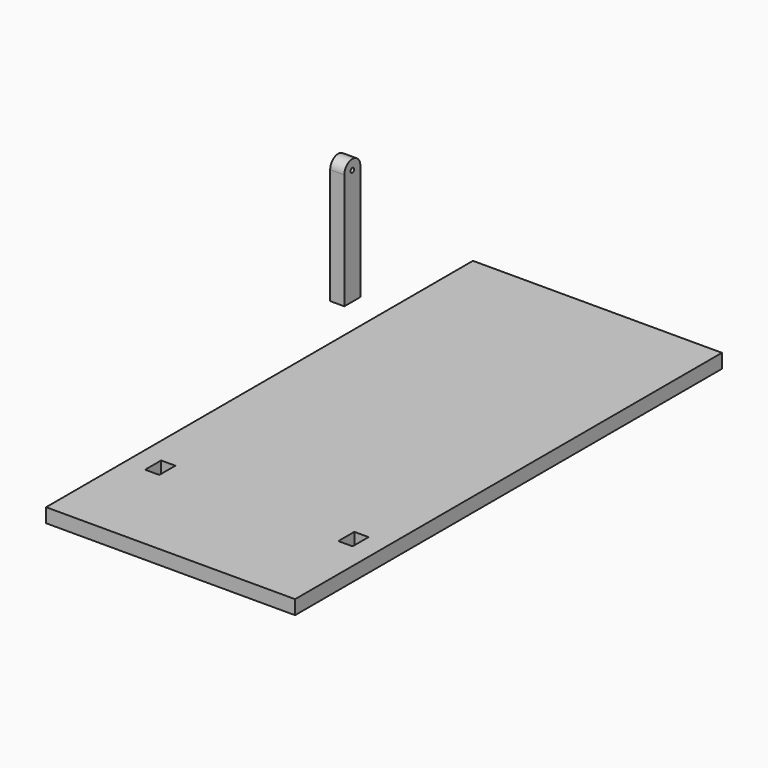
from build123d import *

# Parameters (mm, degrees)
F0_R     = 0.5
F1_DEPTH = 3.18
F2_W     = 56
F2_H     = 120
F2_W_2   = 3.2
F2_H_2   = 4.5
F3_DEPTH = 3.18


with BuildPart() as f1:
    # F0 (on Right) → F1 (new body)
    with BuildSketch(Plane.YZ):
        with BuildLine():
            Line((-22.527829, 25.80721), (-22.527829, -0.223886))
            Line((-22.527829, -0.223886), (-18.028684, -0.223886))
            Line((-18.028684, -0.223886), (-18.028684, 25.80721))
            ThreePointArc((-18.028684, 25.80721), (-20.278256, 28.056783), (-22.527829, 25.80721))
        make_face()
        with Locations((-20.278256, 25.80721)):
            Circle(F0_R, mode=Mode.SUBTRACT)
    extrude(amount=-F1_DEPTH)


with BuildPart() as f3:
    # F2 (on Top) → F3 (new body)
    with BuildSketch(Plane.XY):
        with Locations((38.899257, -60)):
            Rectangle(F2_W, F2_H)
        with Locations((17.169257, -95.75)):
            Rectangle(F2_W_2, F2_H_2, mode=Mode.SUBTRACT)
        with Locations((60.629257, -95.75)):
            Rectangle(F2_W_2, F2_H_2, mode=Mode.SUBTRACT)
    extrude(amount=F3_DEPTH)


solid = Compound([f1.part, f3.part])
